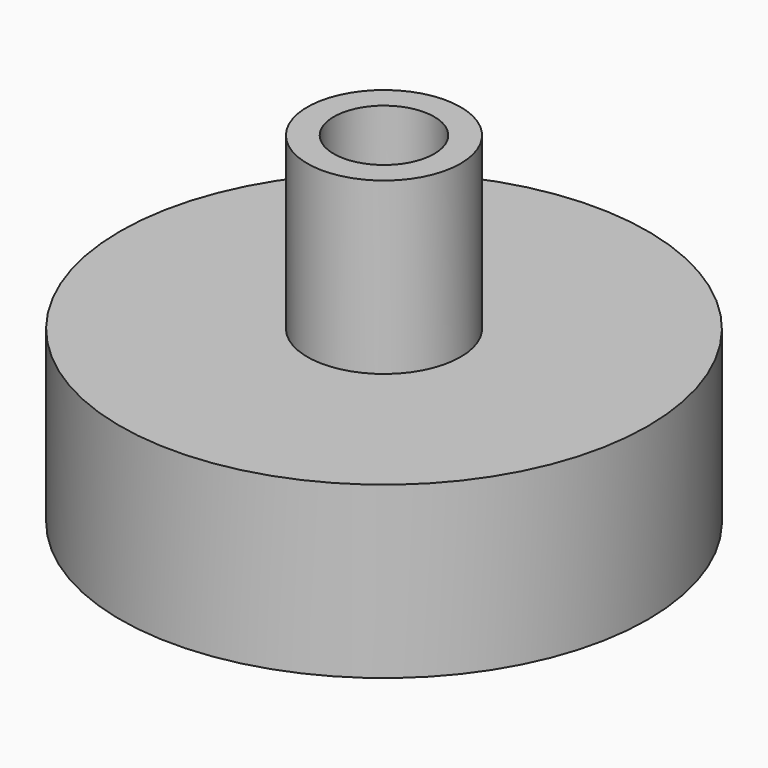
from build123d import *

# Parameters (mm, degrees)
F0_R     = 4.5
F0_R_2   = 2.95
F1_DEPTH = 10
F0_R_3   = 15.5
F2_DEPTH = 10
F3_DEPTH = 15


with BuildPart() as f1:
    # F0 (on Top) → F1 (new body)
    with BuildSketch(Plane.XY):
        Circle(F0_R)
        Circle(F0_R_2, mode=Mode.SUBTRACT)
    extrude(amount=F1_DEPTH)

    # F0 (on Top) → F2 (join)
    with BuildSketch(Plane.XY):
        Circle(F0_R_3)
        Circle(F0_R, mode=Mode.SUBTRACT)
    extrude(amount=-F2_DEPTH)

    # F3 (add): a face of the model
    f3_faces = [f1.faces().sort_by_distance(p)[0] for p in [
        (-4.3727207794, 0, 0),
    ]]
    extrude(f3_faces, amount=F3_DEPTH)


solid = f1.part
